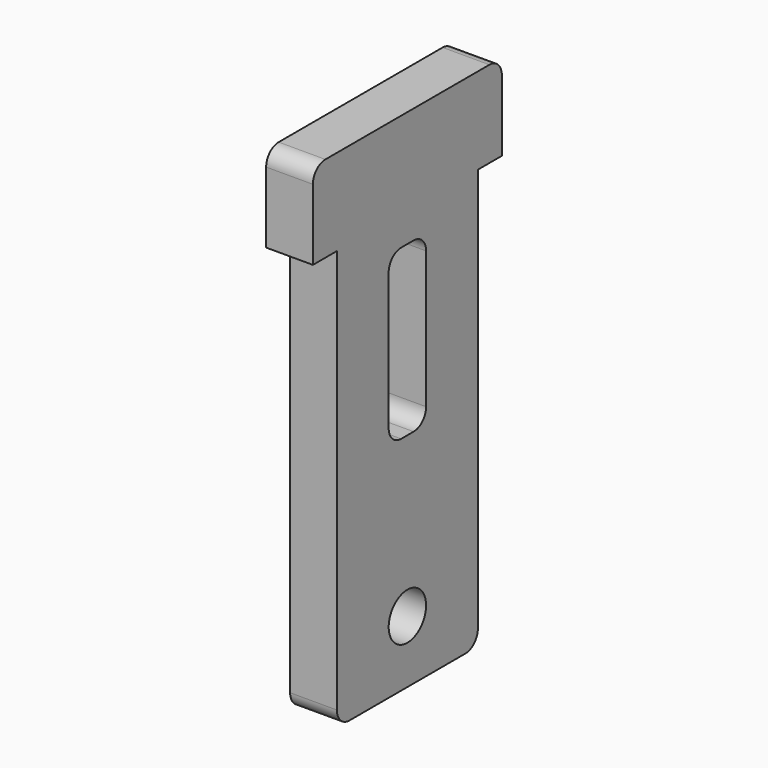
from build123d import *

# Parameters (mm, degrees)
F0_R     = 1.5
F1_DEPTH = 3


with BuildPart() as f1:
    # F0 (on Right) → F1 (new body)
    with BuildSketch(Plane.YZ):
        with BuildLine():
            Line((6.575, 6.060806), (-6.575, 6.060806))
            ThreePointArc((-6.575, 6.060806), (-7.282107, 5.767913), (-7.575, 5.060806))
            Line((-7.575, 5.060806), (-7.575, 0.510806))
            Line((-7.575, 0.510806), (-5.65, 0.510806))
            Line((-5.65, 0.510806), (-5.65, -25.409194))
            ThreePointArc((-5.65, -25.409194), (-5.357107, -26.1163), (-4.65, -26.409194))
            Line((-4.65, -26.409194), (4.65, -26.409194))
            ThreePointArc((4.65, -26.409194), (5.357107, -26.1163), (5.65, -25.409194))
            Line((5.65, -25.409194), (5.65, 0.510806))
            Line((5.65, 0.510806), (7.575, 0.510806))
            Line((7.575, 0.510806), (7.575, 5.060806))
            ThreePointArc((7.575, 5.060806), (7.282107, 5.767913), (6.575, 6.060806))
        make_face()
        with Locations((0, -22.409194)):
            Circle(F0_R, mode=Mode.SUBTRACT)
        with BuildLine():
            ThreePointArc((-1.5, -2.389194), (-1.207107, -1.682087), (-0.5, -1.389194))
            Line((-0.5, -1.389194), (0.5, -1.389194))
            ThreePointArc((0.5, -1.389194), (1.207107, -1.682087), (1.5, -2.389194))
            Line((1.5, -2.389194), (1.5, -11.189194))
            ThreePointArc((1.5, -11.189194), (1.207107, -11.8963), (0.5, -12.189194))
            Line((0.5, -12.189194), (-0.5, -12.189194))
            ThreePointArc((-0.5, -12.189194), (-1.207107, -11.8963), (-1.5, -11.189194))
            Line((-1.5, -11.189194), (-1.5, -2.389194))
        make_face(mode=Mode.SUBTRACT)
    extrude(amount=F1_DEPTH)


solid = f1.part
